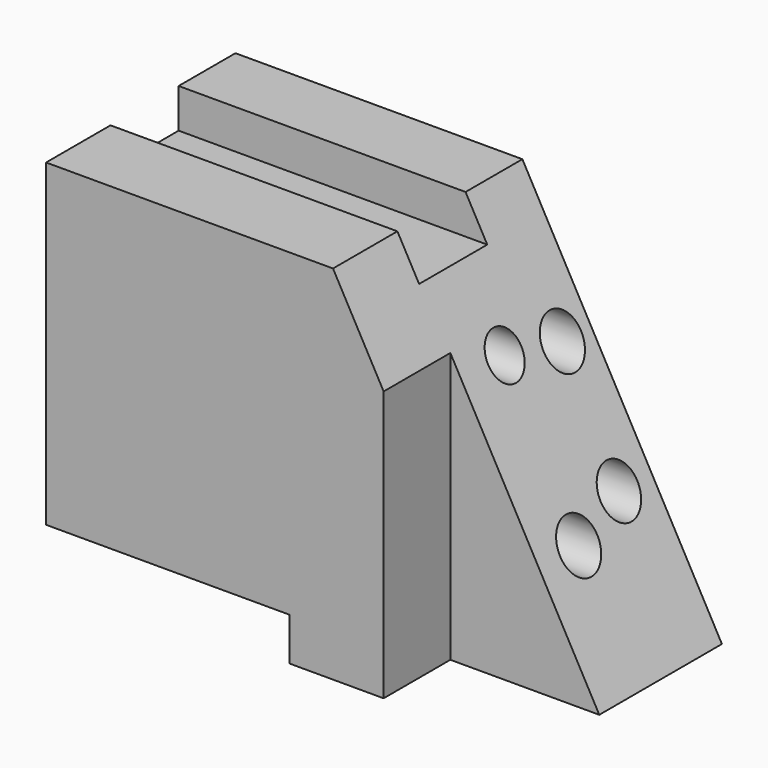
from build123d import *

# Parameters (mm, degrees)
F1_DEPTH      = 33.782
F1_DEPTH_BACK = 30.988
F2_W          = 23.3154920861
F2_H          = 10.7609964907
F3_DEPTH      = 133.35
F4_W          = 40.752293542
F4_H          = 22.821725624
F5_DEPTH      = 113.792
F6_R          = 6.3550530627
F6_R_2        = 5.6399455055
F6_R_3        = 6.2542744147
F6_R_4        = 6.3550538293
F7_DEPTH      = 204.978
F8_W          = 66.5587559342
F8_H          = 11.7573849857
F9_DEPTH      = 176.53


with BuildPart() as f1:
    # F0 (on Front) → F1 (new body, two sides)
    with BuildSketch(Plane.XZ) as f1_sk:
        Polygon((66.5587559342, -49.5205111802), (11.9566628709, 49.5205111802), (-66.5587559342, 49.5205111802), (-66.5587559342, -49.5205111802), align=None)
    extrude(amount=F1_DEPTH)
    extrude(f1_sk.sketch, amount=-F1_DEPTH_BACK)

    # F2 (on face) → F3 (cut)
    with BuildSketch(Plane(origin=(-66.5587559342, 0, 0), x_dir=(0, -1, 0), z_dir=(-1, 0, 0))):
        with Locations((0.0996389426, 44.1400129348)):
            Rectangle(F2_W, F2_H)
    extrude(amount=-F3_DEPTH, mode=Mode.SUBTRACT)

    # F4 (on face) → F5 (cut)
    with BuildSketch(Plane(origin=(0, 0, -49.5205111802), x_dir=(1, 0, 0), z_dir=(0, 0, -1))):
        with Locations((46.1826091632, 22.371137188)):
            Rectangle(F4_W, F4_H)
    extrude(amount=-F5_DEPTH, mode=Mode.SUBTRACT)

    # F6 (on face) → F7 (cut)
    with BuildSketch(Plane(origin=(-66.5587559342, 0, 0), x_dir=(0, -1, 0), z_dir=(-1, 0, 0))):
        with Locations((-21.3227141649, 15.6433004886)):
            Circle(F6_R)
        with Locations((-3.7862760946, 18.8317429274)):
            Circle(F6_R_2)
        with Locations((-19.927771762, -14.4476341084)):
            Circle(F6_R_3)
        with Locations((-2.5906104129, -19.6288544685)):
            Circle(F6_R_4)
    extrude(amount=-F7_DEPTH, mode=Mode.SUBTRACT)

    # F8 (on face) → F9 (cut)
    with BuildSketch(Plane.XZ.offset(33.782)):
        with Locations((-33.2793779671, -43.6418186873)):
            Rectangle(F8_W, F8_H)
    extrude(amount=-F9_DEPTH, mode=Mode.SUBTRACT)


solid = f1.part
